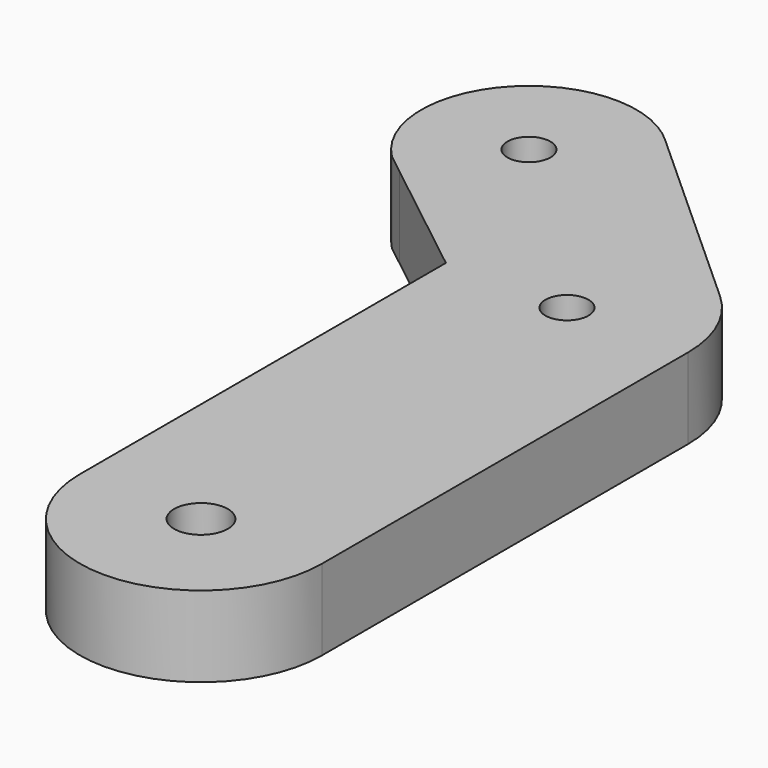
from build123d import *

# Parameters (mm, degrees)
F0_R     = 5
F0_R_2   = 4
F1_DEPTH = 15


with BuildPart() as f1:
    # F0 (on Top) → F1 (new body)
    with BuildSketch(Plane.XY):
        with BuildLine():
            Line((15.090626, 16.689009), (-21.443711, 49.724285))
            ThreePointArc((-21.443711, 49.724285), (-49.611346, 49.382679), (-49.497475, 21.213203))
            Line((-49.497475, 21.213203), (-45.750738, 18.269213))
            Line((-45.750738, 18.269213), (-22.5, 0))
            Line((-22.5, 0), (-22.5, -85))
            ThreePointArc((-22.5, -85), (0, -107.5), (22.5, -85))
            Line((22.5, -85), (22.5, 0))
            ThreePointArc((22.5, 0), (20.5644, 9.129921), (15.090626, 16.689009))
        make_face()
        with Locations((0, -85)):
            Circle(F0_R, mode=Mode.SUBTRACT)
        with Locations((-35.355339, 35.355339)):
            Circle(F0_R_2, mode=Mode.SUBTRACT)
        Circle(F0_R_2, mode=Mode.SUBTRACT)
    extrude(amount=F1_DEPTH)


solid = f1.part
